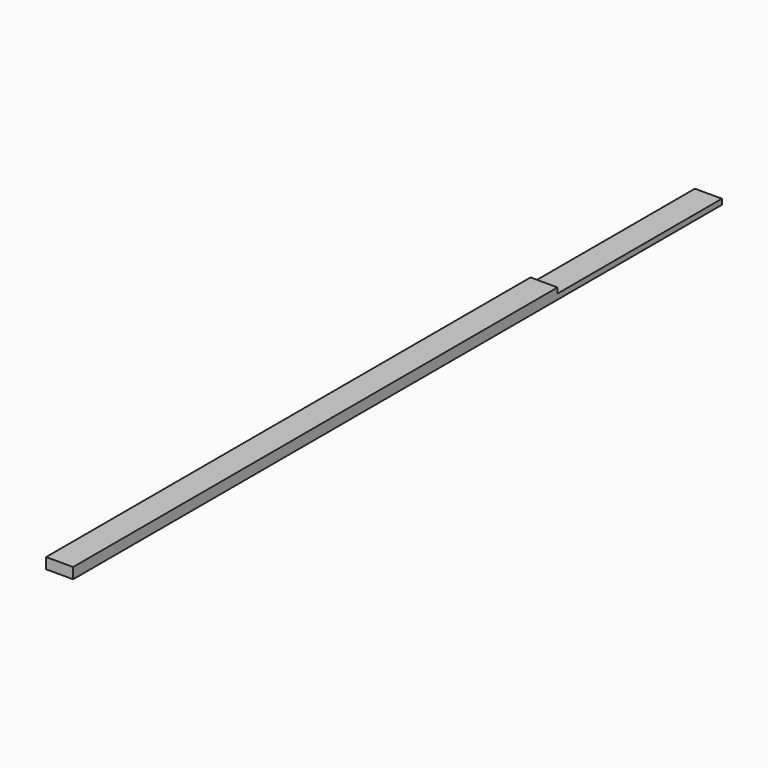
from build123d import *

# Parameters (mm, degrees)
F2_DEPTH = 2
F3_W     = 10
F3_H     = 224
F4_DEPTH = 2


with BuildPart() as f2:
    # F1 (on face) → F2 (new body)
    with BuildSketch(Plane.XY):
        Polygon((10, 300), (0, 300), (0, 224), (0, 0), (10, 0), align=None)
    extrude(amount=F2_DEPTH)

    # F3 (on face) → F4 (join)
    with BuildSketch(Plane.XY.offset(2)):
        with Locations((5, 112)):
            Rectangle(F3_W, F3_H)
    extrude(amount=F4_DEPTH)


solid = f2.part
